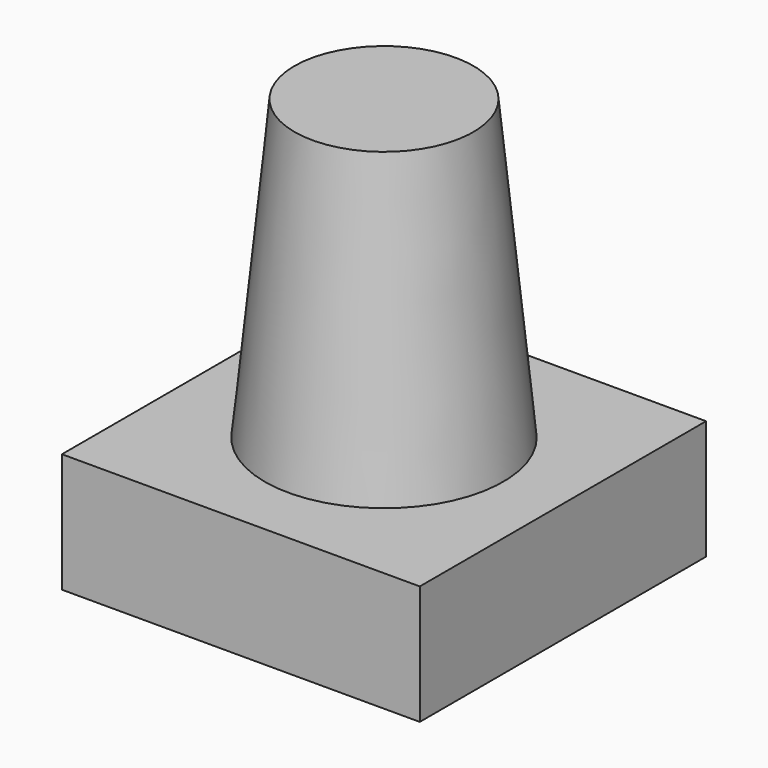
from build123d import *

# Parameters (mm, degrees)
F2_W     = 6
F2_H     = 6
F2_R     = 2
F3_DEPTH = 2


with BuildPart() as f1:
    # F0 (on Front) → F1 (revolve)
    with BuildSketch(Plane.XZ):
        Polygon((-2, 0), (0, 0), (0, 5), (-1.5, 5), align=None)
    revolve(axis=Axis((0, 0, 7.964), (0, 0, 1)))

    # F2 (on face) → F3 (join)
    with BuildSketch(Plane(origin=(0, 0, 0), x_dir=(1, 0, 0), z_dir=(0, 0, -1))):
        Rectangle(F2_W, F2_H)
        Circle(F2_R, mode=Mode.SUBTRACT)
        Circle(F2_R)
    extrude(amount=F3_DEPTH)


solid = f1.part
